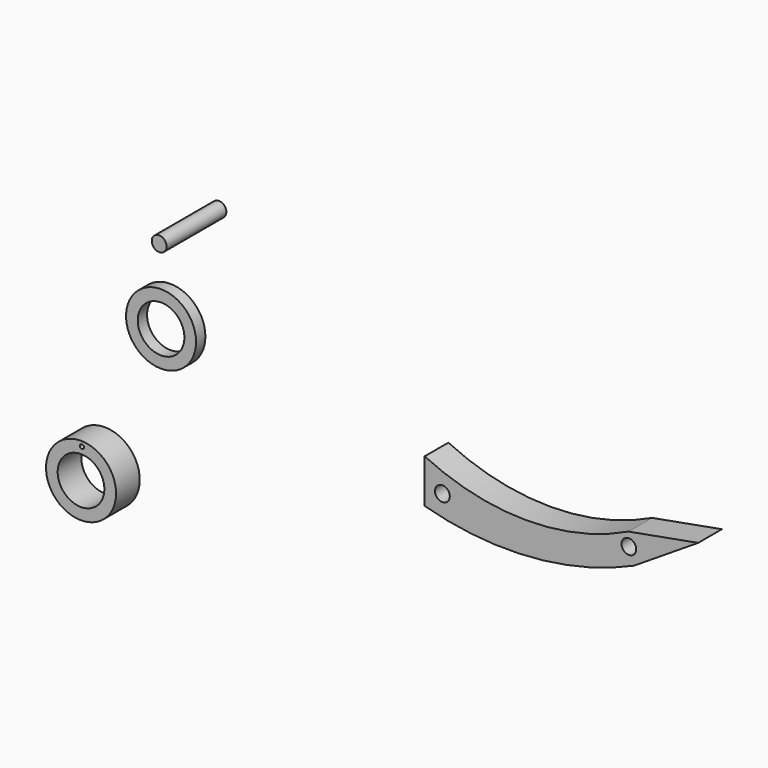
from build123d import *

# Parameters (mm, degrees)
F0_R     = 1.5875
F0_R_2   = 1.576416
F1_DEPTH = 6.35
F0_R_3   = 7.5
F0_R_4   = 5
F0_R_5   = 0.441854
F2_DEPTH = 6.35
F3_DEPTH = 16.002
F4_DEPTH = 2.5


with BuildPart() as f1:
    # F0 (on Front) → F1 (new body)
    with BuildSketch(Plane.XZ):
        with BuildLine():
            ThreePointArc((43.658202, 0), (21.829101, -4.981335), (0, 0))
            Line((0, 0), (0, -9.372278))
            ThreePointArc((0, -9.372278), (22.712581, -11.630374), (44.844568, -6.050457))
            Line((44.844568, -6.050457), (58.606395, 2.728639))
            Line((58.606395, 2.728639), (43.658202, 0))
        make_face()
        with Locations((3.796365, -5.813184)):
            Circle(F0_R, mode=Mode.SUBTRACT)
        with Locations((43.755949, -2.801067)):
            Circle(F0_R_2, mode=Mode.SUBTRACT)
    extrude(amount=F1_DEPTH)


with BuildPart() as f2:
    # F0 (on Front) → F2 (new body)
    with BuildSketch(Plane.XZ):
        with Locations((-49.157687, 28.030444)):
            Circle(F0_R)
        with Locations((-73.623779, -28.516083)):
            Circle(F0_R_3)
        with Locations((-73.623779, -28.516083)):
            Circle(F0_R_4, mode=Mode.SUBTRACT)
        with Locations((-73.427692, -22.060107)):
            Circle(F0_R_5, mode=Mode.SUBTRACT)
    extrude(amount=F2_DEPTH)

    # F0 (on Front) → F3 (join)
    with BuildSketch(Plane.XZ):
        with Locations((-49.157687, 28.030444)):
            Circle(F0_R)
    extrude(amount=F3_DEPTH)


with BuildPart() as f4:
    # F0 (on Front) → F4 (new body)
    with BuildSketch(Plane.XZ):
        with Locations((-59.557062, 3.089042)):
            Circle(F0_R_3)
        with Locations((-59.557062, 3.089042)):
            Circle(F0_R_4, mode=Mode.SUBTRACT)
    extrude(amount=F4_DEPTH)


solid = Compound([f1.part, f2.part, f4.part])
